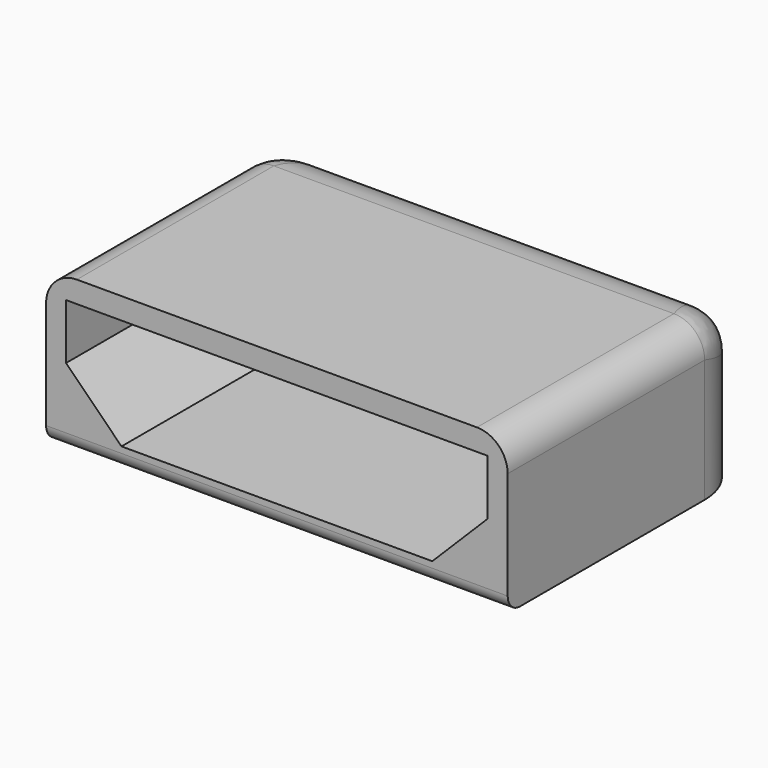
from build123d import *

# Parameters (mm, degrees)
SKETCH007_W     = 7.5
SKETCH007_H     = 5
PAD006_DEPTH    = 2.5
SKETCH008_W     = 6.85
SKETCH008_H     = 1.8
POCKET001_DEPTH = 4
FILLET_R        = 0.5
CHAMFER003_SIZE = 0.9
FILLET001_R     = 0.25
FILLET002_R     = 1


with BuildPart() as part:
    # Sketch007 (on Face1 of CopyPad003) → Pad006 (new body)
    with BuildSketch(Plane.XY.offset(1.6)):
        with Locations((0, -25.5)):
            Rectangle(SKETCH007_W, SKETCH007_H)
    extrude(amount=PAD006_DEPTH)

    # Sketch008 (on Face1 of Pad006) → Pocket001 (cut)
    with BuildSketch(Plane(origin=(0, -28, 1.6), x_dir=(1, 0, 0), z_dir=(0, -1, 0))):
        with Locations((0, 1.25)):
            Rectangle(SKETCH008_W, SKETCH008_H)
    extrude(amount=-POCKET001_DEPTH, mode=Mode.SUBTRACT)

    # Fillet
    fillet_edges = [part.edges().sort_by_distance(p)[0] for p in [
        (-3.75, -25.5, 4.1),
        (3.75, -25.5, 4.1),
    ]]
    fillet(fillet_edges, radius=FILLET_R)

    # Chamfer003
    chamfer003_edges = [part.edges().sort_by_distance(p)[0] for p in [
        (3.425, -26, 1.95),
        (-3.425, -26, 1.95),
    ]]
    chamfer(chamfer003_edges, length=CHAMFER003_SIZE)

    # Fillet001
    fillet001_edges = [part.edges().sort_by_distance(p)[0] for p in [
        (0, -28, 1.6),
    ]]
    fillet(fillet001_edges, radius=FILLET001_R)

    # Fillet002
    fillet002_edges = [part.edges().sort_by_distance(p)[0] for p in [
        (0, -23, 4.1),
    ]]
    fillet(fillet002_edges, radius=FILLET002_R)


solid = part.part
